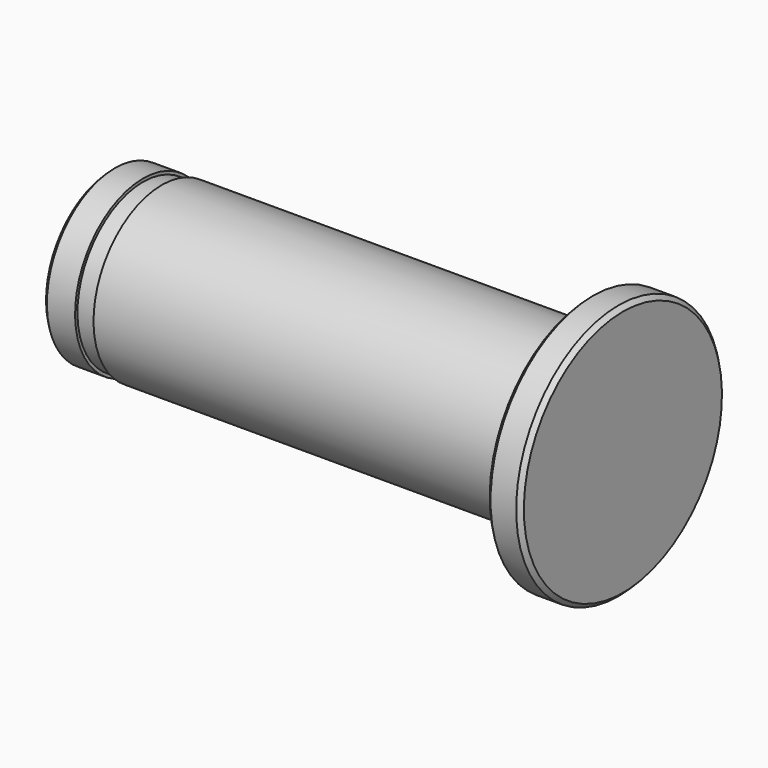
from build123d import *

# Parameters (mm, degrees)
F2_SIZE = 0.25


with BuildPart() as f1:
    # F0 (on Front) → F1 (revolve)
    with BuildSketch(Plane.XZ):
        Polygon((-30, 0), (0, 0), (0, 7.5), (-2, 7.5), (-2, 5), (-27, 5), (-27, 4.8), (-28.1, 4.8), (-28.1, 4.975), (-30, 4.975), align=None)
    revolve(axis=Axis((2.79349, 0, 0), (1, 0, 0)))

    # F2
    f2_edges = [f1.edges().sort_by_distance(p)[0] for p in [
        (-2, 0, -7.5),
        (-2, 0, -5),
        (0, 0, -7.5),
        (-30, 0, -4.975),
    ]]
    chamfer(f2_edges, length=F2_SIZE)


solid = f1.part
